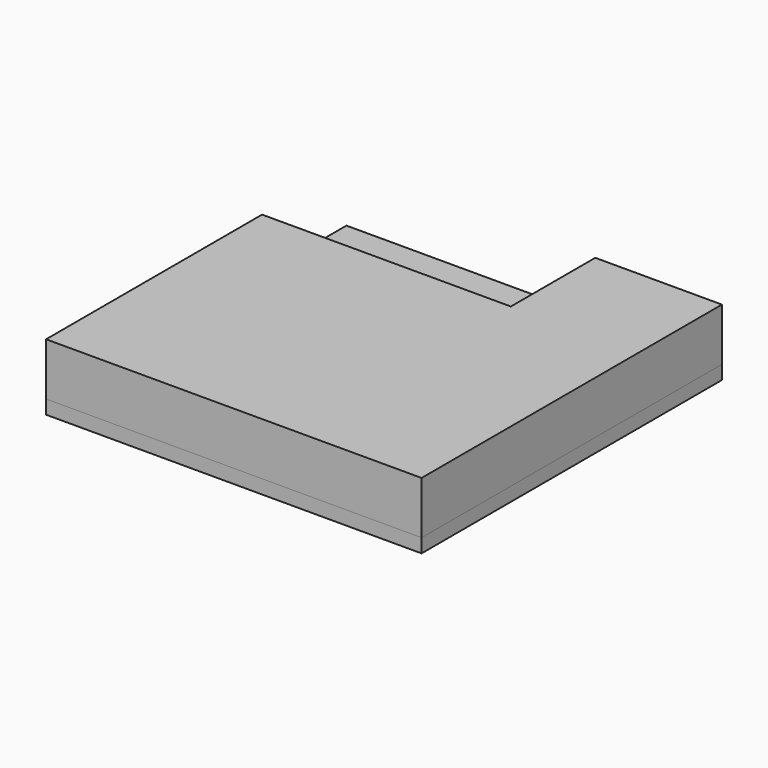
from build123d import *

# Parameters (mm, degrees)
SKETCH_W      = 6.5
SKETCH_H      = 6.5
PAD_DEPTH     = 0.24
EXTRUDE_DEPTH = 0.91


with BuildPart() as pad:
    # Sketch → Pad (new body)
    with BuildSketch(Plane.XY):
        Rectangle(SKETCH_W, SKETCH_H)
    extrude(amount=PAD_DEPTH)


with BuildPart() as can:
    # Sketch001 (on Face6 of Pad) → Extrude (new body)
    with BuildSketch(Plane.XY.offset(0.24)):
        Polygon((-3.25, -3.25), (-3.25, 1.423879), (1.057164, 1.423879), (1.057164, 3.25), (3.25, 3.25), (3.25, -3.25), align=None)
    extrude(amount=EXTRUDE_DEPTH)


solid = Compound([pad.part, can.part])
